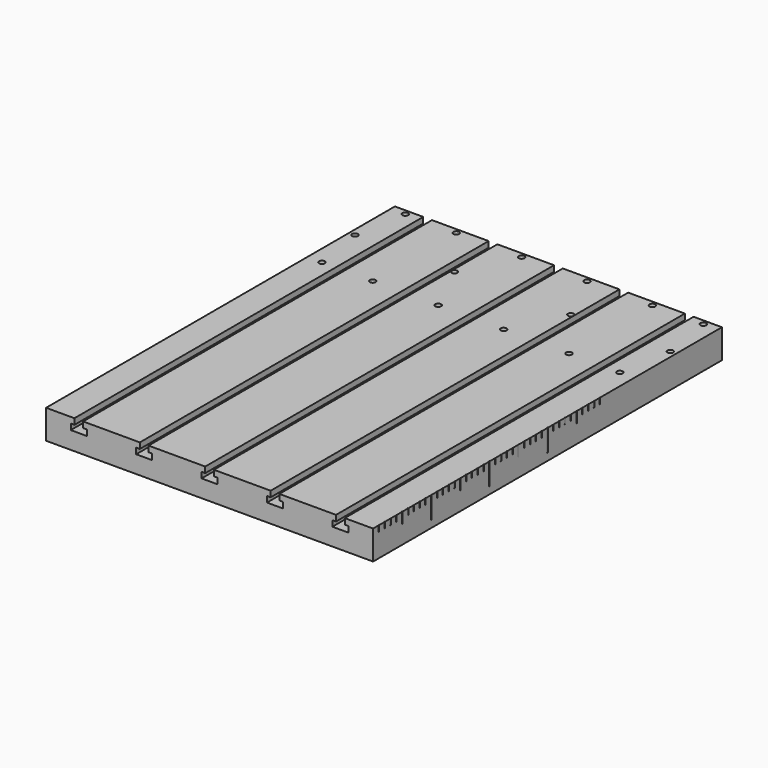
from build123d import *

# Parameters (mm, degrees)
F1_DEPTH = 600
F2_R     = 0.25
F2_R_2   = 0.5
F3_DEPTH = 8
F4_DEPTH = 15
F5_DEPTH = 30
F2_R_3   = 4
F2_R_4   = 3.95
F6_DEPTH = 40.001


with BuildPart() as f1:
    # F0 (on Front) → F1 (new body)
    with BuildSketch(Plane.XZ):
        Polygon((-225, 40), (-225, 0), (225, 0), (225, 40), (186, 40), (186, 32), (191, 32), (191, 24), (169, 24), (169, 32), (174, 32), (174, 40), (96, 40), (96, 32), (101, 32), (101, 24), (79, 24), (79, 32), (84, 32), (84, 40), (6, 40), (6, 32), (11, 32), (11, 24), (-11, 24), (-11, 32), (-6, 32), (-6, 40), (-84, 40), (-84, 32), (-79, 32), (-79, 24), (-101, 24), (-101, 32), (-96, 32), (-96, 40), (-174, 40), (-174, 32), (-169, 32), (-169, 24), (-191, 24), (-191, 32), (-186, 32), (-186, 40), align=None)
    extrude(amount=-F1_DEPTH)

    # F2 (on face) → F3 (cut)
    with BuildSketch(Plane.XY.offset(40)):
        with Locations((225.003332, 0)):
            Circle(F2_R)
        with Locations((225.003332, 10)):
            Circle(F2_R_2)
        with Locations((225.003332, 20)):
            Circle(F2_R_2)
        with Locations((225.003332, 30)):
            Circle(F2_R_2)
        with Locations((225.003332, 40)):
            Circle(F2_R_2)
        with Locations((225.003332, 50)):
            Circle(F2_R_2)
        with Locations((225.003332, 60)):
            Circle(F2_R_2)
        with Locations((225.003332, 70)):
            Circle(F2_R_2)
        with Locations((225.003332, 80)):
            Circle(F2_R_2)
        with Locations((225.003332, 90)):
            Circle(F2_R_2)
        with Locations((225.003332, 100)):
            Circle(F2_R_2)
        with Locations((225.003332, 110)):
            Circle(F2_R_2)
        with Locations((225.003332, 120)):
            Circle(F2_R_2)
        with Locations((225.003332, 130)):
            Circle(F2_R_2)
        with Locations((225.003332, 140)):
            Circle(F2_R_2)
        with Locations((225.003332, 150)):
            Circle(F2_R_2)
        with Locations((225.003332, 160)):
            Circle(F2_R_2)
        with Locations((225.003332, 170)):
            Circle(F2_R_2)
        with Locations((225.003332, 180)):
            Circle(F2_R_2)
        with Locations((225.003332, 190)):
            Circle(F2_R_2)
        with Locations((225.003332, 200)):
            Circle(F2_R_2)
        with Locations((225.003332, 210)):
            Circle(F2_R_2)
        with Locations((225.003332, 220)):
            Circle(F2_R_2)
        with Locations((225.003332, 230)):
            Circle(F2_R_2)
        with Locations((225.003332, 240)):
            Circle(F2_R_2)
        with Locations((225.003332, 250)):
            Circle(F2_R_2)
        with Locations((225.003332, 260)):
            Circle(F2_R_2)
        with Locations((225.003332, 270)):
            Circle(F2_R_2)
        with Locations((225.003332, 280)):
            Circle(F2_R_2)
        with Locations((225.003332, 290)):
            Circle(F2_R_2)
        with Locations((225.003332, 300)):
            Circle(F2_R_2)
        with Locations((225.003332, 310)):
            Circle(F2_R_2)
        with Locations((225.003332, 320)):
            Circle(F2_R_2)
        with Locations((225.003332, 330)):
            Circle(F2_R_2)
        with Locations((225.003332, 340)):
            Circle(F2_R_2)
        with Locations((225.003332, 350)):
            Circle(F2_R_2)
        with Locations((225.003332, 360)):
            Circle(F2_R_2)
        with Locations((225.003332, 370)):
            Circle(F2_R_2)
        with Locations((225.003332, 380)):
            Circle(F2_R_2)
        with Locations((225.003332, 390)):
            Circle(F2_R_2)
    extrude(amount=-F3_DEPTH, mode=Mode.SUBTRACT)

    # F2 (on face) → F4 (cut)
    with BuildSketch(Plane.XY.offset(40)):
        with Locations((225.003332, 50)):
            Circle(F2_R_2)
        with Locations((225.003332, 100)):
            Circle(F2_R_2)
        with Locations((225.003332, 150)):
            Circle(F2_R_2)
        with Locations((225.003332, 200)):
            Circle(F2_R_2)
        with Locations((225.003332, 250)):
            Circle(F2_R_2)
        with Locations((225.003332, 300)):
            Circle(F2_R_2)
        with Locations((225.003332, 350)):
            Circle(F2_R_2)
    extrude(amount=-F4_DEPTH, mode=Mode.SUBTRACT)

    # F2 (on face) → F5 (cut)
    with BuildSketch(Plane.XY.offset(40)):
        with Locations((225.003332, 0)):
            Circle(F2_R)
        with Locations((225.003332, 100)):
            Circle(F2_R_2)
        with Locations((225.003332, 200)):
            Circle(F2_R_2)
        with Locations((225.003332, 300)):
            Circle(F2_R_2)
    extrude(amount=-F5_DEPTH, mode=Mode.SUBTRACT)

    # F2 (on face) → F6 (cut, through all)
    with BuildSketch(Plane.XY.offset(40)):
        with Locations((-45, 593)):
            Circle(F2_R_3)
        with Locations((-135, 593)):
            Circle(F2_R_3)
        with Locations((-205, 593)):
            Circle(F2_R_3)
        with Locations((-217, 521.25)):
            Circle(F2_R_3)
        with Locations((-205, 449.5)):
            Circle(F2_R_3)
        with Locations((-45, 449.5)):
            Circle(F2_R_3)
        with Locations((-135, 449.5)):
            Circle(F2_R_3)
        with Locations((45, 593)):
            Circle(F2_R_3)
        with Locations((135, 593)):
            Circle(F2_R_3)
        with Locations((205, 593)):
            Circle(F2_R_3)
        with Locations((217, 521.25)):
            Circle(F2_R_3)
        with Locations((45, 449.5)):
            Circle(F2_R_3)
        with Locations((205, 449.5)):
            Circle(F2_R_3)
        with Locations((135, 449.5)):
            Circle(F2_R_3)
        with Locations((80, 521.25)):
            Circle(F2_R_4)
        with Locations((-80, 521.25)):
            Circle(F2_R_4)
    extrude(amount=-F6_DEPTH, mode=Mode.SUBTRACT)


solid = f1.part
